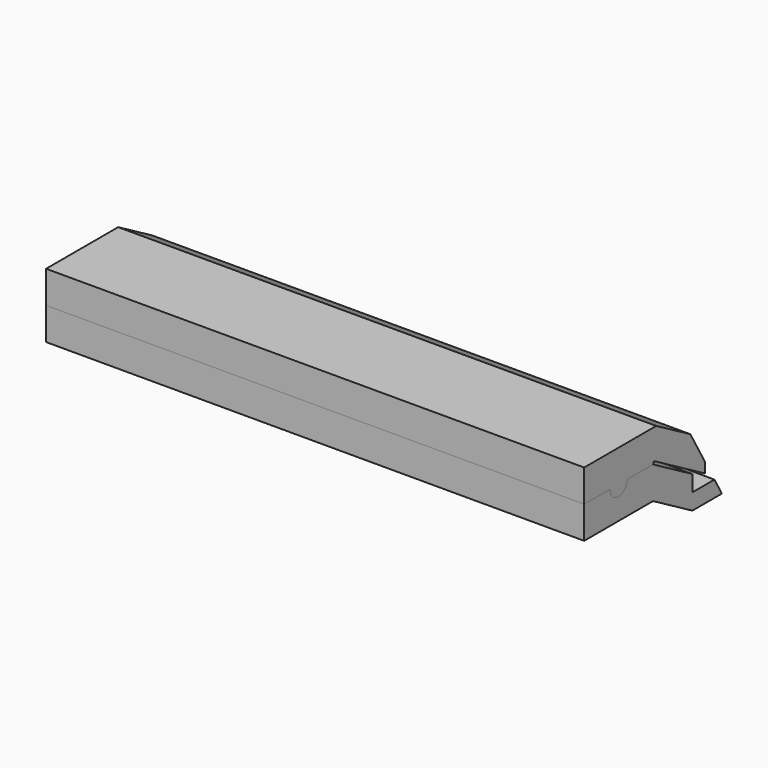
from build123d import *

# Parameters (mm, degrees)
F1_DEPTH = 25
F2_DEPTH = 25


with BuildPart() as f1:
    # F0 (on Right) → F1 (new body, symmetric)
    with BuildSketch(Plane.YZ):
        with BuildLine():
            Line((8.36947, 6), (0, 6))
            Line((0, 6), (0, 3))
            Line((0, 3), (3, 3))
            ThreePointArc((3, 3), (4, 2), (5, 3))
            Line((5, 3), (8, 3))
            Line((8, 3), (8.127, 3.21997))
            Line((8.127, 3.21997), (14.015973, -0.18003))
            Line((14.015973, -0.18003), (14.015973, 0.8))
            Line((14.015973, 0.8), (12.335892, 3.709985))
            Line((12.335892, 3.709985), (8.36947, 6))
        make_face()
    extrude(amount=F1_DEPTH, both=True)


with BuildPart() as f2:
    # F0 (on Right) → F2 (new body, symmetric)
    with BuildSketch(Plane.YZ):
        with BuildLine():
            Line((3, 3), (0, 3))
            Line((0, 3), (0, 0))
            Line((0, 0), (8, 0))
            Line((8, 0), (12.57264, -2.640015))
            Line((12.57264, -2.640015), (16.002066, -2.640015))
            Line((16.002066, -2.640015), (15.136041, -1.140015))
            Line((15.136041, -1.140015), (12.57264, -1.140015))
            Line((12.57264, -1.140015), (12.57264, 0.359985))
            Line((12.57264, 0.359985), (8, 3))
            Line((8, 3), (5, 3))
            ThreePointArc((5, 3), (4, 2), (3, 3))
        make_face()
    extrude(amount=F2_DEPTH, both=True)


solid = Compound([f1.part, f2.part])
